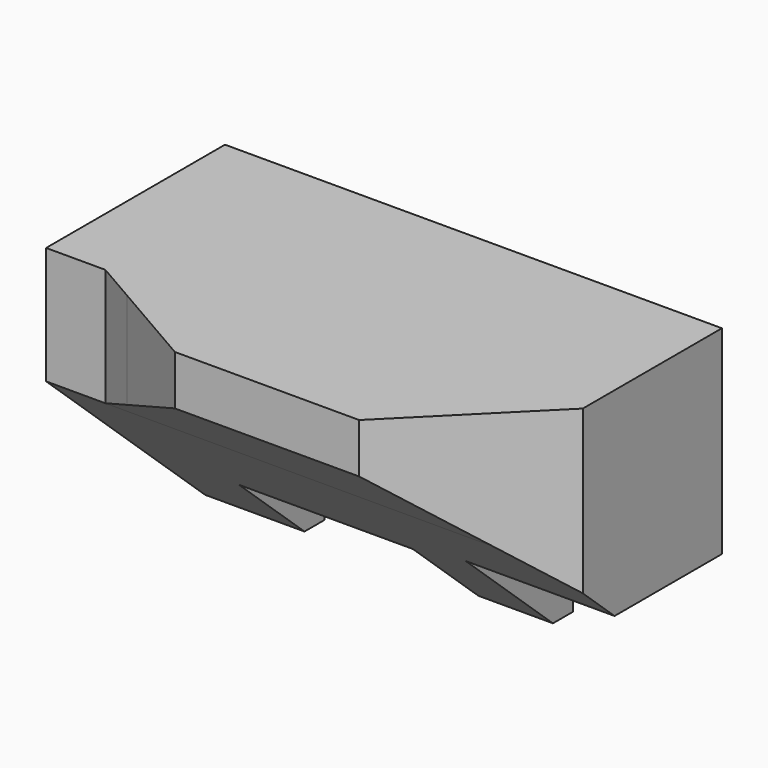
from build123d import *

# Parameters (mm, degrees)
F3_DEPTH = 60
F5_DEPTH = 60.001
F7_DEPTH = 100.001


with BuildPart() as f3:
    # F2 (on Front) → F3 (new body)
    with BuildSketch(Plane.XZ):
        Polygon((61.358089, 38.292337), (-38.641911, 38.292337), (-38.641911, -21.707663), (-18.641911, -21.707663), (-18.641911, -6.707663), (16.358089, -6.707663), (16.358089, -21.707663), (31.358089, -21.707663), (31.358089, -1.707663), (61.358089, -1.707663), align=None)
    extrude(amount=F3_DEPTH)

    # F4 (on face) → F5 (cut, through all)
    with BuildSketch(Plane(origin=(0, 0, -21.707663), x_dir=(1, 0, 0), z_dir=(0, 0, -1))):
        Polygon((-38.641911, 60), (-38.641911, 45), (-26.710982, 45), (-18.641911, 49.65868), (-18.641911, 60), align=None)
        Polygon((-18.641911, 60), (-18.641911, 49.65868), (-0.730219, 60), align=None)
        Polygon((61.358089, 60), (36.358089, 60), (61.358089, 35), align=None)
    extrude(amount=-F5_DEPTH, mode=Mode.SUBTRACT)

    # F6 (on face) → F7 (cut, through all)
    with BuildSketch(Plane(origin=(-38.641911, 0, 0), x_dir=(0, -1, 0), z_dir=(-1, 0, 0))):
        Polygon((60, -21.707663), (60, 28.292337), (45, 14.655973), (45, -21.707663), align=None)
        Polygon((45, -21.707663), (45, 14.655973), (5, -21.707663), align=None)
    extrude(amount=-F7_DEPTH, mode=Mode.SUBTRACT)


solid = f3.part
